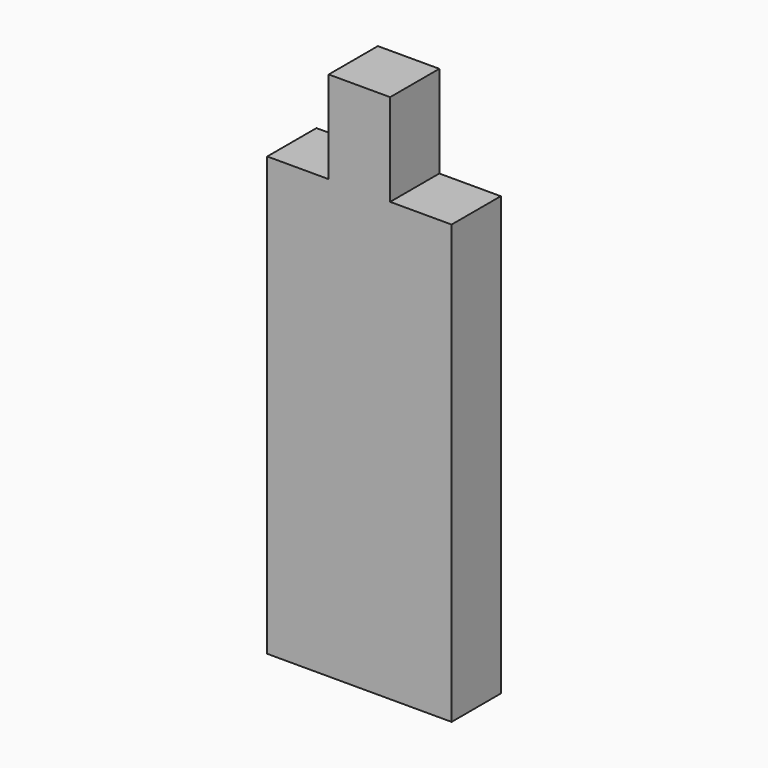
from build123d import *

# Parameters (mm, degrees)
PAD_DEPTH = 203.2


with BuildPart() as part:
    # Sketch → Pad (new body)
    with BuildSketch(Plane.XZ):
        Polygon((0, 0), (0, 1447.8), (203.2, 1447.8), (203.2, 1752.6), (406.4, 1752.6), (406.4, 1447.8), (609.6, 1447.8), (609.6, 0), align=None)
    extrude(amount=PAD_DEPTH)


solid = part.part
